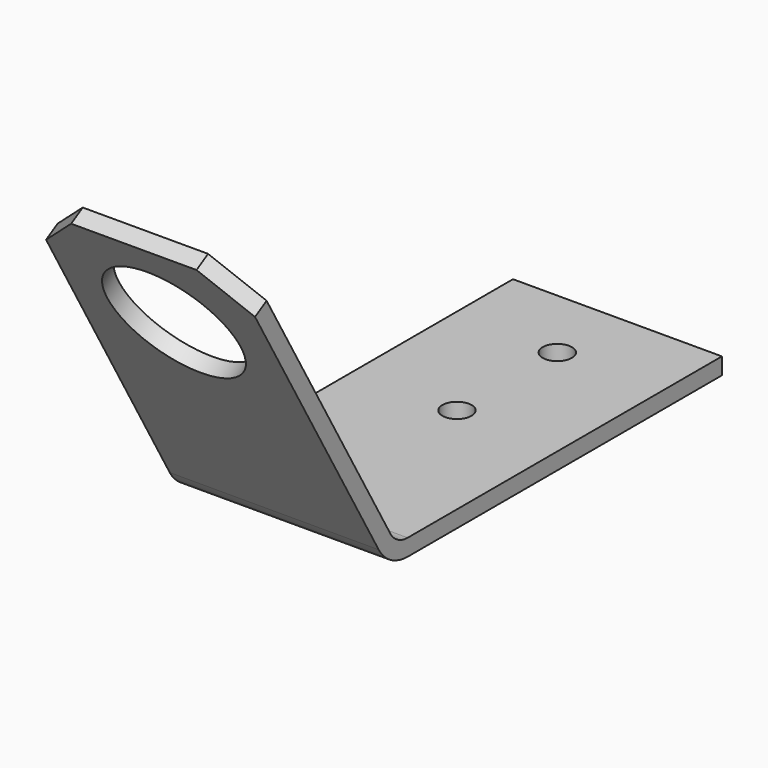
from build123d import *

# Parameters (mm, degrees)
F1_DEPTH = 25
F2_R     = 8
F3_DEPTH = 25
F4_SIZE  = 5
F5_R     = 1.75
F6_DEPTH = 25


with BuildPart() as f1:
    # F0 (on Right) → F1 (new body)
    with BuildSketch(Plane.YZ):
        with BuildLine():
            Line((1.7320508076, 42.9015853287), (0, 41.9015853287))
            Line((0, 41.9015853287), (21, 5.5285183697))
            ThreePointArc((21, 5.5285183697), (22.8301270189, 3.6983913508), (25.3301270189, 3.0285183697))
            Line((25.3301270189, 3.0285183697), (72.3301270189, 3.0285183697))
            Line((72.3301270189, 3.0285183697), (72.3301270189, 5.0285183697))
            Line((72.3301270189, 5.0285183697), (25.3301270189, 5.0285183697))
            ThreePointArc((25.3301270189, 5.0285183697), (23.8301270189, 5.4304421584), (22.7320508076, 6.5285183697))
            Line((22.7320508076, 6.5285183697), (1.7320508076, 42.9015853287))
        make_face()
    extrude(amount=F1_DEPTH)

    # F2 (on face) → F3 (cut)
    with BuildSketch(Plane(origin=(0, 19.8759694843, 11.4753963322), x_dir=(-1, 0, 0), z_dir=(0, 0.8660254038, 0.5))):
        with Locations((-12.5, 24.2878373535)):
            Circle(F2_R)
    extrude(amount=-F3_DEPTH, mode=Mode.SUBTRACT)

    # F4
    f4_edges = [f1.edges().sort_by_distance(p)[0] for p in [
        (0, 0.866025, 42.401585),
        (25, 0.866025, 42.401585),
    ]]
    chamfer(f4_edges, length=F4_SIZE)

    # F5 (on face) → F6 (cut)
    with BuildSketch(Plane.XY.offset(5.0285183697)):
        with Locations((12.5, 63.3301270189)):
            Circle(F5_R)
        with Locations((12.5, 48.3301270189)):
            Circle(F5_R)
    extrude(amount=-F6_DEPTH, mode=Mode.SUBTRACT)


solid = f1.part
